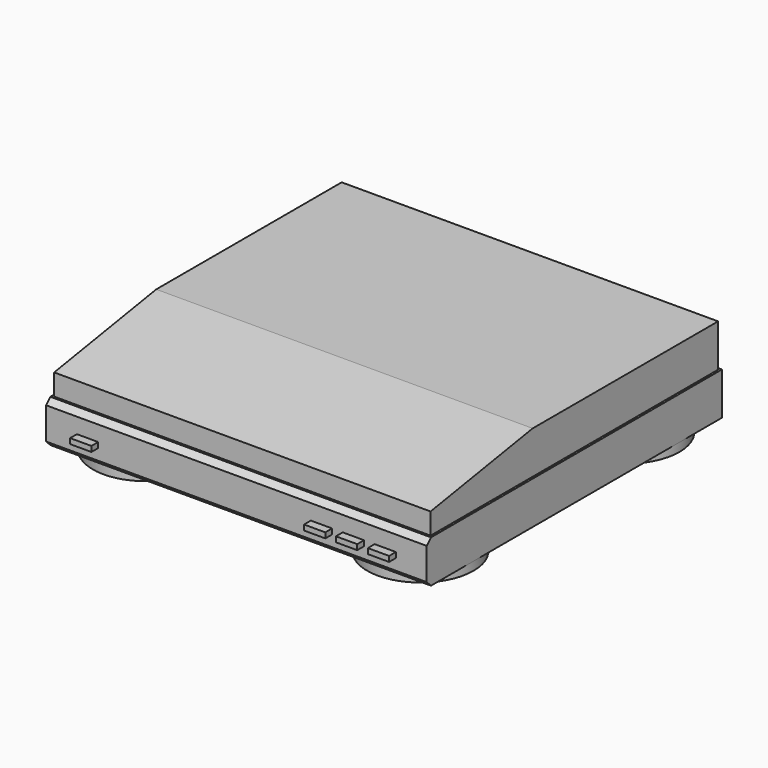
from build123d import *

# Parameters (mm, degrees)
F0_W      = 347
F0_H      = 40
F1_DEPTH  = 179
F2_SIZE   = 5
F3_W      = 20
F3_H      = 5
F4_DEPTH  = 8
F5_R      = 150
F6_DEPTH  = 5
F8_DEPTH  = 177
F9_R      = 50
F10_DEPTH = 8


with BuildPart() as f1:
    # F0 (on Right) → F1 (new body, symmetric)
    with BuildSketch(Plane.YZ):
        with Locations((173.5, 20)):
            Rectangle(F0_W, F0_H)
    extrude(amount=F1_DEPTH, both=True)

    # F2
    f2_edges = [f1.edges().sort_by_distance(p)[0] for p in [
        (0, 0, 40),
        (0, 0, 0),
    ]]
    chamfer(f2_edges, length=F2_SIZE)

    # F3 (on face) → F4 (join)
    with BuildSketch(Plane.XZ):
        with Locations((-140, 18)):
            Rectangle(F3_W, F3_H)
        with Locations((110, 18)):
            Rectangle(F3_W, F3_H)
        with Locations((140, 18)):
            Rectangle(F3_W, F3_H)
        with Locations((80, 18)):
            Rectangle(F3_W, F3_H)
    extrude(amount=F4_DEPTH)

    # F5 (on face) → F6 (join)
    with BuildSketch(Plane.XY.offset(40)):
        with Locations((0, 175)):
            Circle(F5_R)
    extrude(amount=F6_DEPTH)

    # F9 (on face) → F10 (join)
    with BuildSketch(Plane(origin=(0, 0, 0), x_dir=(1, 0, 0), z_dir=(0, 0, -1))):
        with Locations((129, -55)):
            Circle(F9_R)
        with Locations((-129, -55)):
            Circle(F9_R)
        with Locations((-129, -297)):
            Circle(F9_R)
        with Locations((129, -297)):
            Circle(F9_R)
    extrude(amount=F10_DEPTH)


with BuildPart() as f8:
    # F7 (on Right) → F8 (new body, symmetric)
    with BuildSketch(Plane.YZ):
        Polygon((7, 40), (345, 40), (345, 80), (127, 80), (7, 60), align=None)
    extrude(amount=F8_DEPTH, both=True)


solid = Compound([f1.part, f8.part])
